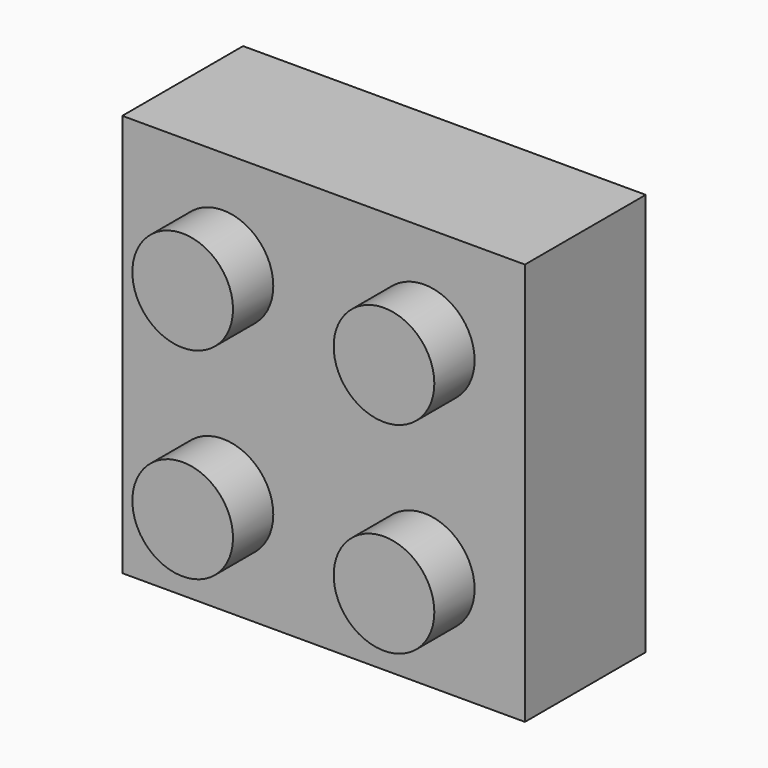
from build123d import *

# Parameters (mm, degrees)
F0_W     = 50.8
F0_H     = 50.8
F1_DEPTH = 19.05
F2_R     = 6.35
F3_DEPTH = 6.35
F5_DEPTH = 6.858


with BuildPart() as f1:
    # F0 (on Front) → F1 (new body)
    with BuildSketch(Plane.XZ):
        with Locations((25.4, 25.4)):
            Rectangle(F0_W, F0_H)
    extrude(amount=F1_DEPTH)

    # F2 (on face) → F3 (join)
    with BuildSketch(Plane.XZ.offset(19.05)):
        with Locations((12.7, 38.1)):
            Circle(F2_R)
        with Locations((38.1, 38.1)):
            Circle(F2_R)
        with Locations((12.7, 12.7)):
            Circle(F2_R)
        with Locations((38.1, 12.7)):
            Circle(F2_R)
    extrude(amount=F3_DEPTH)

    # F4 (on face) → F5 (cut)
    with BuildSketch(Plane(origin=(0, 0, 0), x_dir=(-1, 0, 0), z_dir=(0, 1, 0))):
        with BuildLine():
            Line((-12.7, 44.45), (-38.1, 44.45))
            ThreePointArc((-38.1, 44.45), (-42.590128, 42.590128), (-44.45, 38.1))
            Line((-44.45, 38.1), (-44.45, 12.7))
            ThreePointArc((-44.45, 12.7), (-42.590128, 8.209872), (-38.1, 6.35))
            Line((-38.1, 6.35), (-12.7, 6.35))
            ThreePointArc((-12.7, 6.35), (-8.209872, 8.209872), (-6.35, 12.7))
            Line((-6.35, 12.7), (-6.35, 38.1))
            ThreePointArc((-6.35, 38.1), (-8.209872, 42.590128), (-12.7, 44.45))
        make_face()
    extrude(amount=-F5_DEPTH, mode=Mode.SUBTRACT)


solid = f1.part
